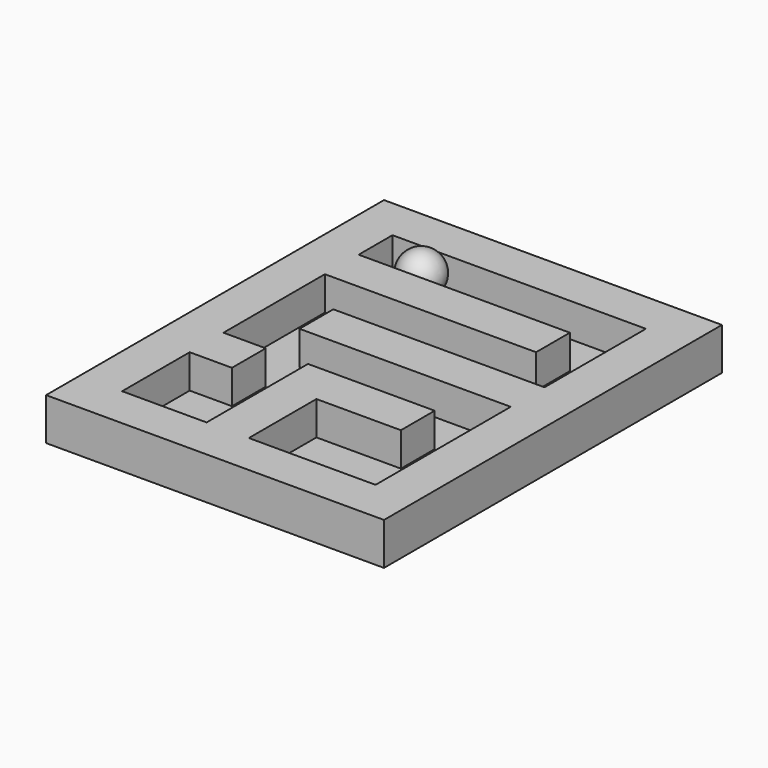
from build123d import *

# Parameters (mm, degrees)
SKETCH_W        = 80
SKETCH_H        = 100
PAD_DEPTH       = 10
POCKET_DEPTH    = 8
SKETCH002_W     = 10
SKETCH002_H     = 10
POCKET001_DEPTH = 5


with BuildPart() as body:
    # Sketch → Pad (new body)
    with BuildSketch(Plane.XY):
        with Locations((40, 50)):
            Rectangle(SKETCH_W, SKETCH_H)
    extrude(amount=PAD_DEPTH)

    # Sketch001 (on Face6 of Pad) → Pocket (cut)
    with BuildSketch(Plane.XY.offset(10)):
        Polygon((10, 90), (70, 90), (70, 60), (20, 60), (20, 50), (70, 50), (70, 10), (40, 10), (40, 30), (60, 30), (60, 40), (30, 40), (30, 10), (10, 10), (10, 30), (20, 30), (20, 40), (10, 40), (10, 70), (60, 70), (60, 80), (10, 80), align=None)
    extrude(amount=-POCKET_DEPTH, mode=Mode.SUBTRACT)

    # Sketch002 (on Face29 of Pocket) → Pocket001 (cut)
    with BuildSketch(Plane.XY.offset(2)):
        with Locations((45, 15)):
            Rectangle(SKETCH002_W, SKETCH002_H)
    extrude(amount=-POCKET001_DEPTH, mode=Mode.SUBTRACT)


with BuildPart() as esfera:
    # Sphere → Sphere (revolve)
    with BuildSketch(Plane(origin=(20, 86, 7), x_dir=(1, 0, 0), z_dir=(0, -1, 0))):
        with BuildLine():
            ThreePointArc((0, -5), (5, 0), (0, 5))
            Line((0, 5), (0, -5))
        make_face()
    revolve(axis=Axis((20, 86, 7), (0, 0, 1)))


solid = Compound([body.part, esfera.part])
